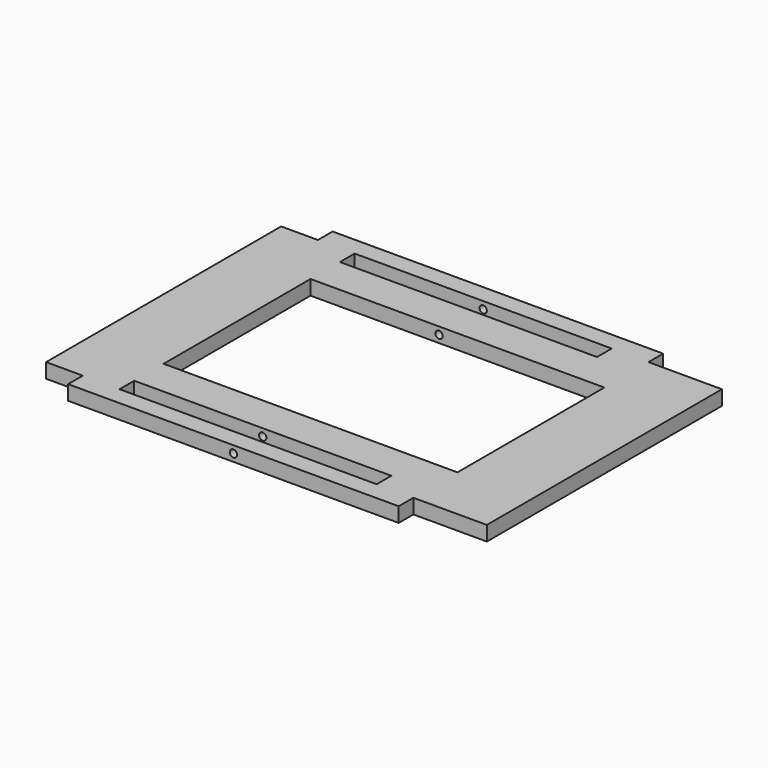
from build123d import *

# Parameters (mm, degrees)
F0_W     = 101.6
F0_H     = 63.5
F1_DEPTH = 5.08
F3_DEPTH = 152.4


with BuildPart() as f1:
    # F0 (on Top) → F1 (new body)
    with BuildSketch(Plane.XY):
        Polygon((-76.2, 50.8), (-76.2, 0), (-76.2, -50.8), (-63.5, -50.8), (-50.8, -50.8), (-50.8, -44.45), (38.1, -44.45), (38.1, -50.8), (50.8, -50.8), (76.2, -50.8), (76.2, 0), (76.2, 50.8), (50.8, 50.8), (38.1, 50.8), (38.1, 44.45), (-50.8, 44.45), (-50.8, 50.8), (-63.5, 50.8), align=None)
        Rectangle(F0_W, F0_H, mode=Mode.SUBTRACT)
        Polygon((-63.5, 57.15), (-63.5, 50.8), (-50.8, 50.8), (38.1, 50.8), (50.8, 50.8), (50.8, 57.15), align=None)
        Polygon((-50.8, -50.8), (-63.5, -50.8), (-63.5, -57.15), (50.8, -57.15), (50.8, -50.8), (38.1, -50.8), align=None)
    extrude(amount=F1_DEPTH)

    # F2 (on face) → F3 (cut)
    with BuildSketch(Plane.XZ.offset(57.15)):
        with BuildLine():
            ThreePointArc((-6.35, 3.81), (-7.62, 2.54), (-6.35, 1.27))
            Line((-6.35, 1.27), (-6.35, 3.81))
        make_face()
        with BuildLine():
            Line((-6.35, 3.81), (-6.35, 1.27))
            ThreePointArc((-6.35, 1.27), (-5.451974, 1.641974), (-5.08, 2.54))
            ThreePointArc((-5.08, 2.54), (-5.451974, 3.438026), (-6.35, 3.81))
        make_face()
    extrude(amount=-F3_DEPTH, mode=Mode.SUBTRACT)


solid = f1.part
